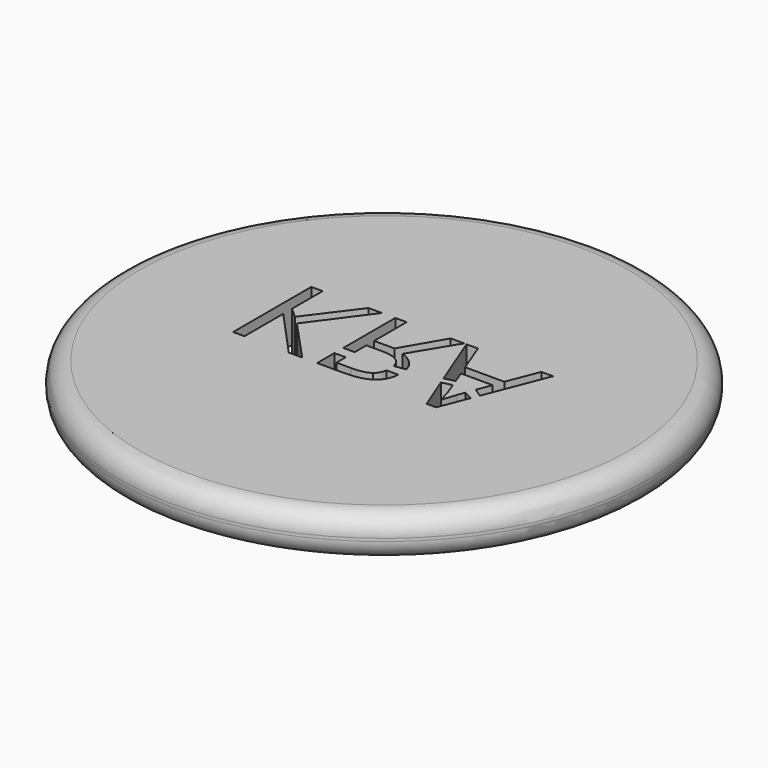
from build123d import *

# Parameters (mm, degrees)
F0_R     = 13.7
F1_DEPTH = 2.15
F2_R     = 1
F4_DEPTH = 2.15


with BuildPart() as f1:
    # F0 (on Top) → F1 (new body)
    with BuildSketch(Plane.XY):
        Circle(F0_R)
    extrude(amount=F1_DEPTH)

    # F2
    f2_edges = [f1.edges().sort_by_distance(p)[0] for p in [
        (-13.7, 0, 2.15),
        (-13.7, 0, 0),
    ]]
    fillet(f2_edges, radius=F2_R)

    # F3 (on face) → F4 (cut, through all)
    with BuildSketch(Plane(origin=(0, 0, 0), x_dir=(1, 0, 0), z_dir=(0, 0, -1))):
        Polygon((-3.3669322911, -3.197086975), (-2.673119963, -3.197086975), (-4.7889700387, -0.3285892857), (-2.749716844, 1.8749586682), (-3.4468594713, 1.8749586682), (-5.7469861014, -0.6405273085), (-5.7469861014, 1.8749586682), (-6.3364490553, 1.8749586682), (-6.3364490553, -3.197086975), (-5.7469861014, -3.197086975), (-5.7469861014, -1.2088983676), (-5.2152483331, -0.7371059845), align=None)
        with BuildLine():
            Line((1.1957695829, 0.0513130465), (0.6036887334, 0.1377061204))
            add(Edge.make_bspline(
                [(0.3380255409, -0.3335847345), (0.5428237209, -0.1592137126), (0.6036887334, 0.1377061204)],
                knots=[0, 0, 0, 0.7028049152, 0.7028049152, 0.7028049152], degree=2))
            add(Edge.make_bspline(
                [(-0.5772516823, -0.581692023), (0.0466243631, -0.581692023), (0.3380255409, -0.3335847345)],
                knots=[0, 0, 0, 1, 1, 1], degree=2))
            Line((-0.5772516823, -0.581692023), (-1.3865143818, -0.581692023))
            Line((-1.3865143818, -0.581692023), (-1.3865143818, 0.17412538))
            Line((-1.3865143818, 0.17412538), (-1.9759773358, 0.17412538))
            Line((-1.9759773358, 0.17412538), (-1.9759773358, -3.197086975))
            Line((-1.9759773358, -3.197086975), (-1.3865143818, -3.197086975))
            Line((-1.3865143818, -3.197086975), (-1.3865143818, -1.0878974976))
            Line((-1.3865143818, -1.0878974976), (-0.3274792442, -1.0878974976))
            Line((-0.3274792442, -1.0878974976), (0.9002910515, -3.197086975))
            Line((0.9002910515, -3.197086975), (1.5974336788, -3.197086975))
            Line((1.5974336788, -3.197086975), (0.2197999202, -0.9180522397))
            add(Edge.make_bspline(
                [(1.1957695829, 0.0513130465), (1.0276039433, -0.6376501903), (0.2197999202, -0.9180522397)],
                knots=[0.2081762837, 0.2081762837, 0.2081762837, 1, 1, 1], degree=2))
        make_face()
        with BuildLine():
            add(Edge.make_bspline(
                [(0.6149774989, 0.619108323), (0.5639843778, 0.9626327865), (0.3330300921, 1.1356322514)],
                knots=[0.2207931367, 0.2207931367, 0.2207931367, 1, 1, 1], degree=2))
            Line((0.6149774989, 0.619108323), (1.2327357734, 0.619108323))
            add(Edge.make_bspline(
                [(0.7942765278, 1.5175065568), (1.1831529928, 1.2056305376), (1.2327357734, 0.619108323)],
                knots=[0, 0, 0, 0.872497348, 0.872497348, 0.872497348], degree=2))
            add(Edge.make_bspline(
                [(-0.5850223804, 1.8749586682), (0.3485714883, 1.8749586682), (0.7942765278, 1.5175065568)],
                knots=[0, 0, 0, 1, 1, 1], degree=2))
            Line((-0.5850223804, 1.8749586682), (-1.9759773358, 1.8749586682))
            Line((-1.9759773358, 1.8749586682), (-1.9759773358, 0.7536415942))
            Line((-1.9759773358, 0.7536415942), (-1.3865143818, 0.7536415942))
            Line((-1.3865143818, 0.7536415942), (-1.3865143818, 1.3576521964))
            Line((-1.3865143818, 1.3576521964), (-0.6194354719, 1.3576521964))
            add(Edge.make_bspline(
                [(0.3330300921, 1.1356322514), (0.0366334655, 1.3576521964), (-0.6194354719, 1.3576521964)],
                knots=[0, 0, 0, 1, 1, 1], degree=2))
        make_face()
        with BuildLine():
            Line((3.7232746521, 1.896050563), (3.0058799547, 0.0735661382))
            Line((3.0058799547, 0.0735661382), (3.5263660581, -0.0564224731))
            Line((3.5263660581, -0.0564224731), (3.7443665468, 0.5184168044))
            add(Edge.make_bspline(
                [(3.9630561926, 1.2499725231), (3.8864593116, 0.9169426056), (3.7443665468, 0.5184168044)],
                knots=[0, 0, 0, 1, 1, 1], degree=2))
            add(Edge.make_bspline(
                [(4.1983973343, 0.5184168044), (4.0840570627, 0.8170336304), (3.9630561926, 1.2499725231)],
                knots=[0, 0, 0, 1, 1, 1], degree=2))
            Line((4.1983973343, 0.5184168044), (4.3359644272, 0.1522607828))
            Line((4.3359644272, 0.1522607828), (4.810570116, 0.3869358669))
            Line((4.810570116, 0.3869358669), (4.2194892291, 1.896050563))
            Line((4.2194892291, 1.896050563), (3.7232746521, 1.896050563))
        make_face()
        Polygon((3.3957695214, -0.40078876), (2.8680717842, -0.2765246073), (1.7184345488, -3.197086975), (2.3156682008, -3.197086975), (2.9395442462, -1.5841120746), (4.9721368426, -1.5841120746), (5.6037835861, -3.197086975), (6.2143384348, -3.197086975), (4.9638303876, -0.0043596959), (4.5097831967, -0.3103846639), (4.788970388, -1.0534844061), (3.1482429945, -1.0534844061), align=None)
    extrude(amount=-F4_DEPTH, mode=Mode.SUBTRACT)


solid = f1.part
